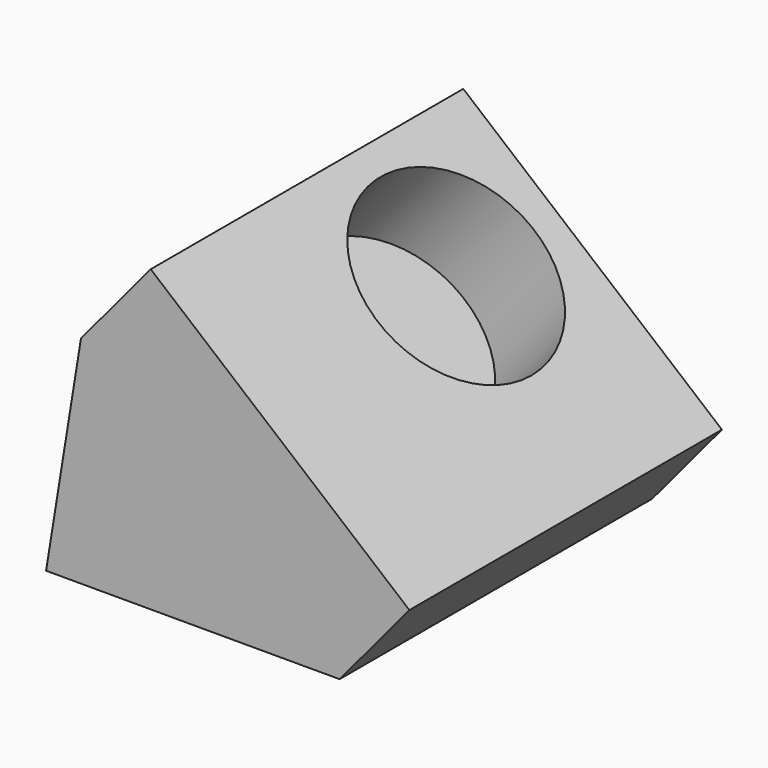
from build123d import *

# Parameters (mm, degrees)
F1_DEPTH = 91.186
F2_W     = 78.6413716667
F2_H     = 91.186
F2_R     = 22.9206914227
F3_DEPTH = 25.4


with BuildPart() as f1:
    # F0 (on Front) → F1 (new body)
    with BuildSketch(Plane.XZ):
        Polygon((8.144730702, 50.4015088081), (0, 0), (68.5115531087, 0), align=None)
        Polygon((8.144730702, 50.4015088081), (0, 0), (68.5115531087, 0), align=None)
    extrude(amount=F1_DEPTH)

    # F2 (on face) → F3 (join)
    with BuildSketch(Plane(origin=(28.1415962699, 0, 33.7057120796), x_dir=(0.7676216873, 0, -0.6409032261), z_dir=(0.6409032261, 0, 0.7676216873))):
        with Locations((13.2702681603, -45.593)):
            Rectangle(F2_W, F2_H)
        with Locations((3.3352246974, -30.279494822)):
            Circle(F2_R, mode=Mode.SUBTRACT)
    extrude(amount=F3_DEPTH)


solid = f1.part
